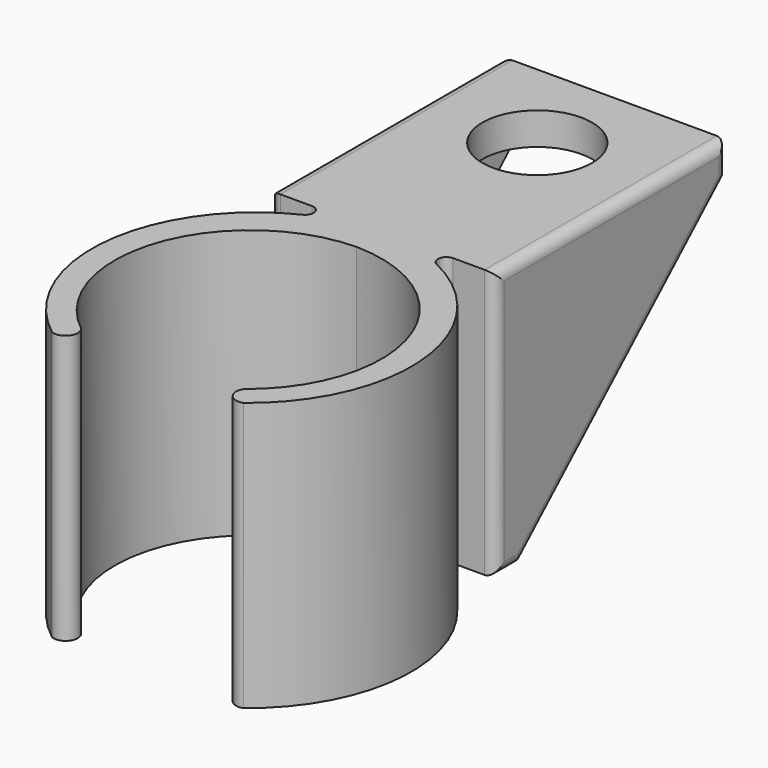
from build123d import *

# Parameters (mm, degrees)
F1_DEPTH = 25
F2_W     = 21
F2_H     = 24
F2_R     = 5.1
F3_DEPTH = 3
F6_DEPTH = 2.95
F8_R     = 1


with BuildPart() as f1:
    # F0 (on Top) → F1 (new body)
    with BuildSketch(Plane.XY):
        with BuildLine():
            ThreePointArc((7.5943561158, -9.0506011845), (7.5880140669, -10.4148995325), (8.8942921325, -10.8085844568))
            ThreePointArc((8.8942921325, -10.8085844568), (14.7842599605, 2.839809495), (6.2367777531, 15.0016731019))
            ThreePointArc((6.2367777531, 15.0016731019), (5.8102691618, 15.8862752393), (6.5779752006, 16.4986949957))
            Line((6.5779752006, 16.4986949957), (10.5, 16.4986949957))
            Line((10.5, 16.4986949957), (10.5, 19.4986949957))
            Line((10.5, 19.4986949957), (-10.5, 19.4986949957))
            Line((-10.5, 19.4986949957), (-10.5, 16.4986949957))
            Line((-10.5, 16.4986949957), (-6.5779752006, 16.4986949957))
            ThreePointArc((-6.5779752006, 16.4986949957), (-5.8102691618, 15.8862752393), (-6.2367777531, 15.0016731019))
            ThreePointArc((-6.2367777531, 15.0016731019), (-14.7842599605, 2.839809495), (-8.8942921325, -10.8085844568))
            ThreePointArc((-8.8942921325, -10.8085844568), (-7.5880140669, -10.4148995325), (-7.5943561158, -9.0506011845))
            ThreePointArc((-7.5943561158, -9.0506011845), (-11.760600173, 4.9065375968), (0, 13.5))
            ThreePointArc((0, 13.5), (11.760600173, 4.9065375968), (7.5943561158, -9.0506011845))
        make_face()
    extrude(amount=F1_DEPTH)

    # F2 (on face) → F3 (join)
    with BuildSketch(Plane.XY.offset(25)):
        with Locations((0, 31.4986949957)):
            Rectangle(F2_W, F2_H)
        with Locations((0, 34.4986949957)):
            Circle(F2_R, mode=Mode.SUBTRACT)
    extrude(amount=-F3_DEPTH)

    # F4: union 

    # F5 (on face) → F6 (join)
    with BuildSketch(Plane.YZ.offset(10.5)):
        Polygon((19.4986949957, 22), (19.4986949957, 0), (43.4986949957, 22), align=None)
    extrude(amount=-F6_DEPTH)

    # F7: F1 across plane


with BuildPart() as f1_1:
    add(f1.part)
    add(f1.part.mirror(Plane.YZ))

    # F8
    f8_edges = [f1_1.edges().sort_by_distance(p)[0] for p in [
        (10.5, 17.998695, 0),
        (10.5, 16.498695, 12.5),
        (10.5, 29.998695, 25),
        (10.5, 43.498695, 23.5),
        (10.5, 31.498695, 11),
        (-10.5, 43.498695, 23.5),
        (-10.5, 29.998695, 25),
        (-10.5, 16.498695, 12.5),
        (-10.5, 17.998695, 0),
        (-10.5, 31.498695, 11),
    ]]
    fillet(f8_edges, radius=F8_R)


solid = f1_1.part
